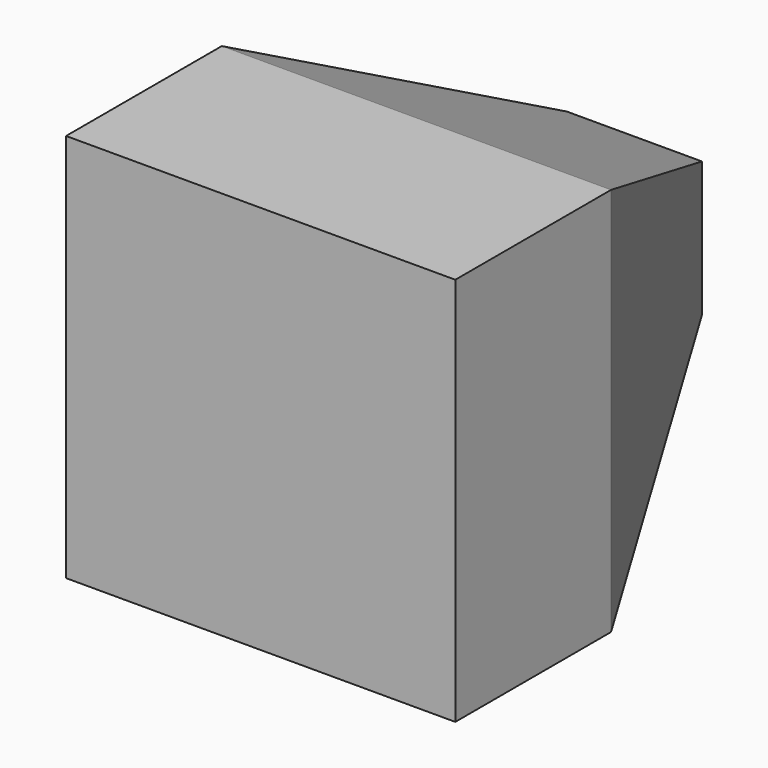
from build123d import *

# Parameters (mm, degrees)
F0_W     = 50
F0_H     = 50
F1_DEPTH = 25
F2_W     = 50
F2_H     = 50
F3_DEPTH = 35
F3_TAPER = 25


with BuildPart() as f1:
    # F0 (on Front) → F1 (new body)
    with BuildSketch(Plane.XZ):
        Rectangle(F0_W, F0_H)
    extrude(amount=-F1_DEPTH)

    # F2 (on face) → F3 (join)
    with BuildSketch(Plane(origin=(0, 25, 0), x_dir=(-1, 0, 0), z_dir=(0, 1, 0))):
        Rectangle(F2_W, F2_H)
    extrude(amount=F3_DEPTH, taper=F3_TAPER)


solid = f1.part
